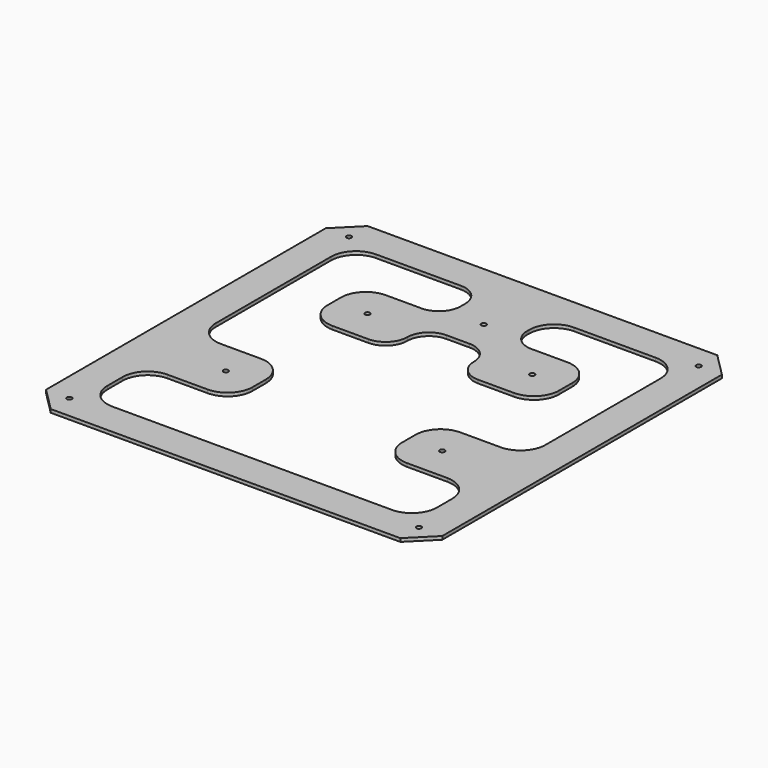
from build123d import *

# Parameters (mm, degrees)
F1_DEPTH = 2
F2_D     = 3
F3_R     = 12.5
F4_DEPTH = 25


with BuildPart() as f1:
    # F0 (on Top) → F1 (new body)
    with BuildSketch(Plane.XY):
        Polygon((119, 105), (105, 119), (-105, 119), (-119, 105), (-119, -105), (-105, -119), (105, -119), (119, -105), align=None)
    extrude(amount=F1_DEPTH)

    # F2 (through all)
    with Locations(Plane(origin=(0, 0, 0), x_dir=(1, 0, 0), z_dir=(0, 0, -1))):
        with Locations((-105, -105), (105, -105), (-105, 105), (105, 105), (0, -75), (64.9519052838, 37.5), (-64.9519052838, 37.5), (-49.5, -49.5), (49.5, -49.5)):
            Hole(F2_D / 2)

    # F3 (on face) → F4 (cut)
    with BuildSketch(Plane.XY.offset(2)):
        with BuildLine():
            Line((-99, 84), (-99, -2.5))
            ThreePointArc((-99, -2.5), (-94.6066017178, -13.1066017178), (-84, -17.5))
            Line((-84, -17.5), (-59.9519052838, -17.5))
            ThreePointArc((-59.9519052838, -17.5), (-49.345303566, -21.8933982822), (-44.9519052838, -32.5))
            Line((-44.9519052838, -32.5), (-44.9519052838, -42.5))
            ThreePointArc((-44.9519052838, -42.5), (-49.345303566, -53.1066017178), (-59.9519052838, -57.5))
            Line((-59.9519052838, -57.5), (-84, -57.5))
            ThreePointArc((-84, -57.5), (-94.6066017178, -61.8933982822), (-99, -72.5))
            Line((-99, -72.5), (-99, -84))
            ThreePointArc((-99, -84), (-94.6066017178, -94.6066017178), (-84, -99))
            Line((-84, -99), (84, -99))
            ThreePointArc((84, -99), (94.6066017178, -94.6066017178), (99, -84))
            Line((99, -84), (99, -72.5))
            ThreePointArc((99, -72.5), (94.6066017178, -61.8933982822), (84, -57.5))
            Line((84, -57.5), (59.9519052838, -57.5))
            ThreePointArc((59.9519052838, -57.5), (49.345303566, -53.1066017178), (44.9519052838, -42.5))
            Line((44.9519052838, -42.5), (44.9519052838, -37.5))
            Line((44.9519052838, -37.5), (44.9519052838, -32.5))
            ThreePointArc((44.9519052838, -32.5), (49.345303566, -21.8933982822), (59.9519052838, -17.5))
            Line((59.9519052838, -17.5), (84, -17.5))
            ThreePointArc((84, -17.5), (94.6066017178, -13.1066017178), (99, -2.5))
            Line((99, -2.5), (99, 40.75))
            Line((99, 40.75), (99, 84))
            ThreePointArc((99, 84), (94.6066017178, 94.6066017178), (84, 99))
            Line((84, 99), (35, 99))
            ThreePointArc((35, 99), (24.3933982822, 94.6066017178), (20, 84))
            Line((20, 84), (20, 82.5))
            ThreePointArc((20, 82.5), (23.8076118446, 73.3076118446), (33, 69.5))
            Line((33, 69.5), (54.5, 69.5))
            ThreePointArc((54.5, 69.5), (65.1066017178, 65.1066017178), (69.5, 54.5))
            Line((69.5, 54.5), (69.5, 44.5))
            ThreePointArc((69.5, 44.5), (65.1066017178, 33.8933982822), (54.5, 29.5))
            Line((54.5, 29.5), (33, 29.5))
            ThreePointArc((33, 29.5), (23.8076118446, 33.3076118446), (20, 42.5))
            ThreePointArc((20, 42.5), (16.1923881554, 51.6923881554), (7, 55.5))
            Line((7, 55.5), (-7, 55.5))
            ThreePointArc((-7, 55.5), (-16.1923881554, 51.6923881554), (-20, 42.5))
            ThreePointArc((-20, 42.5), (-23.8076118446, 33.3076118446), (-33, 29.5))
            Line((-33, 29.5), (-54.5, 29.5))
            ThreePointArc((-54.5, 29.5), (-65.1066017178, 33.8933982822), (-69.5, 44.5))
            Line((-69.5, 44.5), (-69.5, 54.5))
            ThreePointArc((-69.5, 54.5), (-65.1066017178, 65.1066017178), (-54.5, 69.5))
            Line((-54.5, 69.5), (-33, 69.5))
            ThreePointArc((-33, 69.5), (-23.8076118446, 73.3076118446), (-20, 82.5))
            Line((-20, 82.5), (-20, 86))
            ThreePointArc((-20, 86), (-23.8076118446, 95.1923881554), (-33, 99))
            Line((-33, 99), (-84, 99))
            ThreePointArc((-84, 99), (-94.6066017178, 94.6066017178), (-99, 84))
        make_face()
        Circle(F3_R, mode=Mode.SUBTRACT)
        Circle(F3_R)
    extrude(amount=-F4_DEPTH, mode=Mode.SUBTRACT)


solid = f1.part
